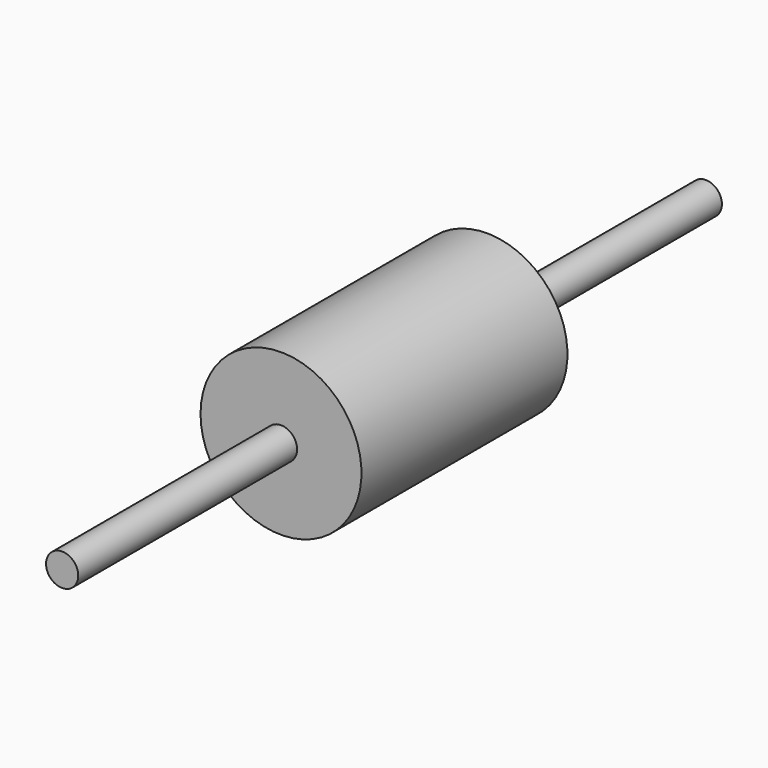
from build123d import *

# Parameters (mm, degrees)
F1_DEPTH = 4
F4_DEPTH = 25
F5_R     = 0.5
F6_DEPTH = 12.5


with BuildPart() as f1:
    # F0 (on Front) → F1 (new body, symmetric)
    with BuildSketch(Plane.XZ):
        with BuildLine():
            Line((-2.5, 16), (2.5, 16))
            ThreePointArc((2.5, 16), (0, 18.5), (-2.5, 16))
        make_face()
        with BuildLine():
            ThreePointArc((-2.5, 16), (0, 13.5), (2.5, 16))
            Line((2.5, 16), (-2.5, 16))
        make_face()
    extrude(amount=F1_DEPTH, both=True)

    # F3 (on offset) → F4 (cut)
    with BuildSketch(Plane.XZ.offset(4)):
        with BuildLine():
            ThreePointArc((0, 15.5), (0.3535533906, 15.6464466094), (0.5, 16))
            ThreePointArc((0.5, 16), (-0.3535533906, 16.3535533906), (0, 15.5))
        make_face()
        with BuildLine():
            ThreePointArc((0, 15.5), (0.3535533906, 15.6464466094), (0.5, 16))
            ThreePointArc((0.5, 16), (-0.3535533906, 16.3535533906), (0, 15.5))
        make_face()
    extrude(amount=-F4_DEPTH, mode=Mode.SUBTRACT)

    # F5 (on Front) → F6 (join, symmetric)
    with BuildSketch(Plane.XZ):
        with Locations((0, 16)):
            Circle(F5_R)
    extrude(amount=F6_DEPTH, both=True)


solid = f1.part
